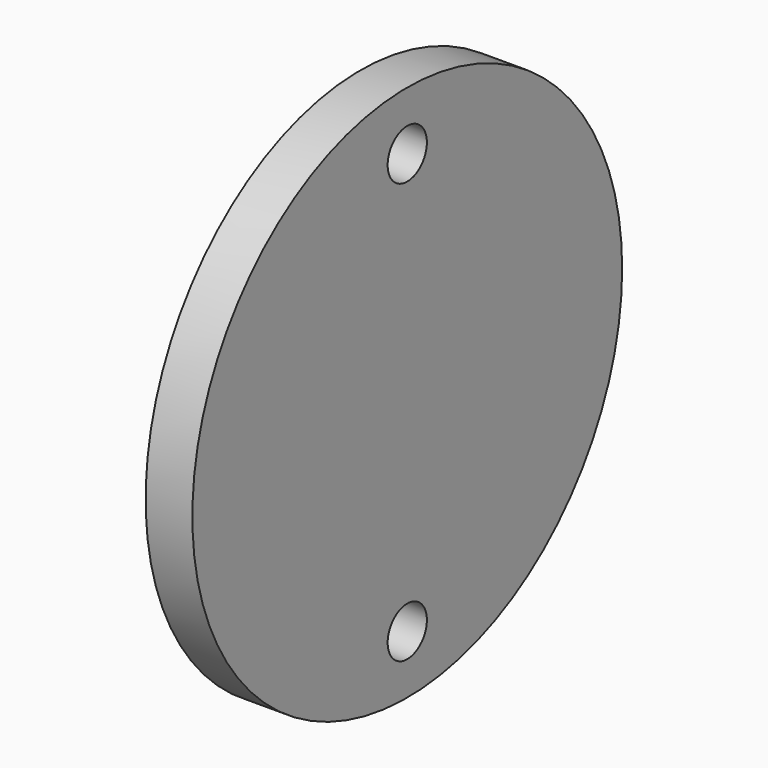
from build123d import *

# Parameters (mm, degrees)
F0_R     = 11.5
F0_R_2   = 1.05
F1_DEPTH = 2
F2_W     = 10
F2_H     = 10
F3_DEPTH = 2.1


with BuildPart() as f1:
    # F0 (on Right) → F1 (new body)
    with BuildSketch(Plane.YZ):
        Circle(F0_R)
        with Locations((0, -9)):
            Circle(F0_R_2, mode=Mode.SUBTRACT)
        with Locations((0, 9)):
            Circle(F0_R_2, mode=Mode.SUBTRACT)
    extrude(amount=F1_DEPTH)

    # F2 (on face) → F3 (join)
    with BuildSketch(Plane(origin=(0, 0, 0), x_dir=(0, -1, 0), z_dir=(-1, 0, 0))):
        Rectangle(F2_W, F2_H)
        with BuildLine():
            ThreePointArc((-3.5, 2), (-3.06066, 3.06066), (-2, 3.5))
            Line((-2, 3.5), (2, 3.5))
            ThreePointArc((2, 3.5), (3.06066, 3.06066), (3.5, 2))
            Line((3.5, 2), (3.5, -2))
            ThreePointArc((3.5, -2), (3.06066, -3.06066), (2, -3.5))
            Line((2, -3.5), (-2, -3.5))
            ThreePointArc((-2, -3.5), (-3.06066, -3.06066), (-3.5, -2))
            Line((-3.5, -2), (-3.5, 2))
        make_face(mode=Mode.SUBTRACT)
    extrude(amount=F3_DEPTH)


solid = f1.part
